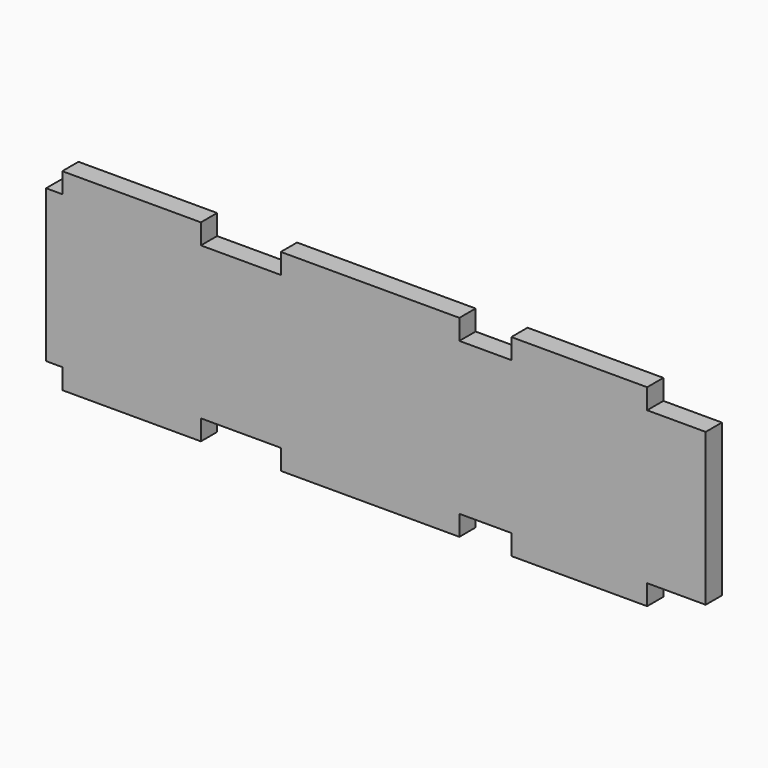
from build123d import *

# Parameters (mm, degrees)
F0_W     = 44.7
F0_H     = 5.08
F0_W_2   = 34
F0_W_3   = 34.7
F1_DEPTH = 5.08


with BuildPart() as f1:
    # F0 (on Front) → F1 (new body)
    with BuildSketch(Plane.XZ):
        Polygon((67.898, -19.05), (82.55, -19.05), (82.55, 19.05), (67.898, 19.05), (33.898, 19.05), (20.898, 19.05), (-23.802, 19.05), (-43.802, 19.05), (-60.55, 19.05), (-78.502, 19.05), (-82.55, 19.05), (-82.55, -19.05), (-78.502, -19.05), (-43.802, -19.05), (-23.802, -19.05), (20.898, -19.05), (33.898, -19.05), align=None)
        Polygon((-60.55, 19.05), (-43.802, 19.05), (-43.802, 24.13), (-78.502, 24.13), (-78.502, 19.05), align=None)
        with Locations((-1.452, 21.59)):
            Rectangle(F0_W, F0_H)
        with Locations((50.898, 21.59)):
            Rectangle(F0_W_2, F0_H)
        with Locations((-61.152, -21.59)):
            Rectangle(F0_W_3, F0_H)
        with Locations((-1.452, -21.59)):
            Rectangle(F0_W, F0_H)
        with Locations((50.898, -21.59)):
            Rectangle(F0_W_2, F0_H)
    extrude(amount=F1_DEPTH)


solid = f1.part
